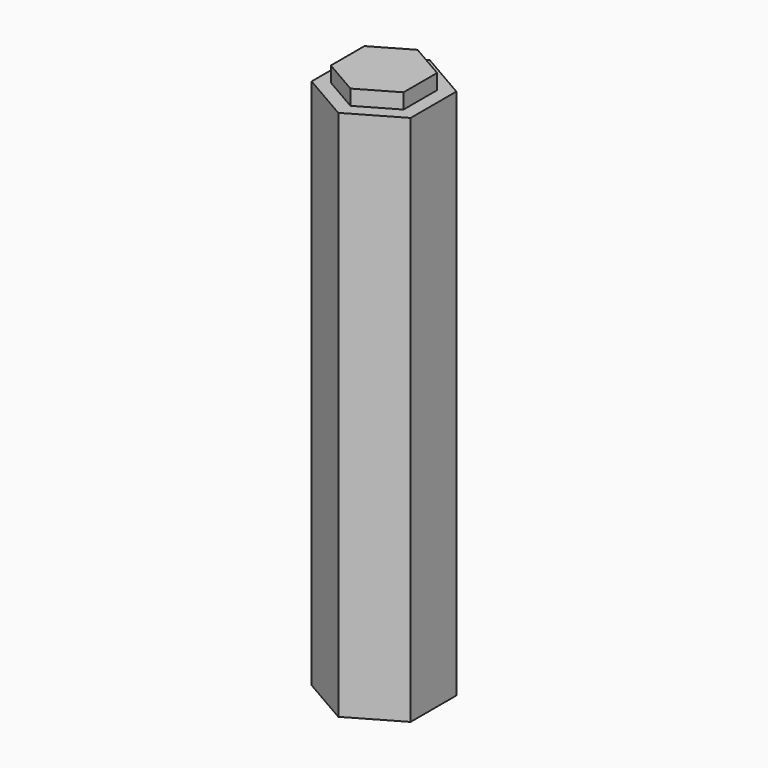
from build123d import *

# Parameters (mm, degrees)
F1_DEPTH = 140
F2_T     = -2
F4_DEPTH = 4


with BuildPart() as f1:
    # F0 (on Top) → F1 (new body)
    with BuildSketch(Plane.XY):
        Polygon((0, -15.047), (13.031084, -7.5235), (13.031084, 7.5235), (0, 15.047), (-13.031084, 7.5235), (-13.031084, -7.5235), align=None)
    extrude(amount=F1_DEPTH)

    # F2
    f2_openings = [f1.faces().sort_by_distance(p)[0] for p in [
        (0, 0, 0),
    ]]
    offset(amount=F2_T, openings=f2_openings)

    # F3 (on face) → F4 (join)
    with BuildSketch(Plane.XY.offset(140)):
        Polygon((0, -11.047), (9.566983, -5.5235), (9.566983, 5.5235), (0, 11.047), (-9.566983, 5.5235), (-9.566983, -5.5235), align=None)
    extrude(amount=F4_DEPTH)


solid = f1.part
